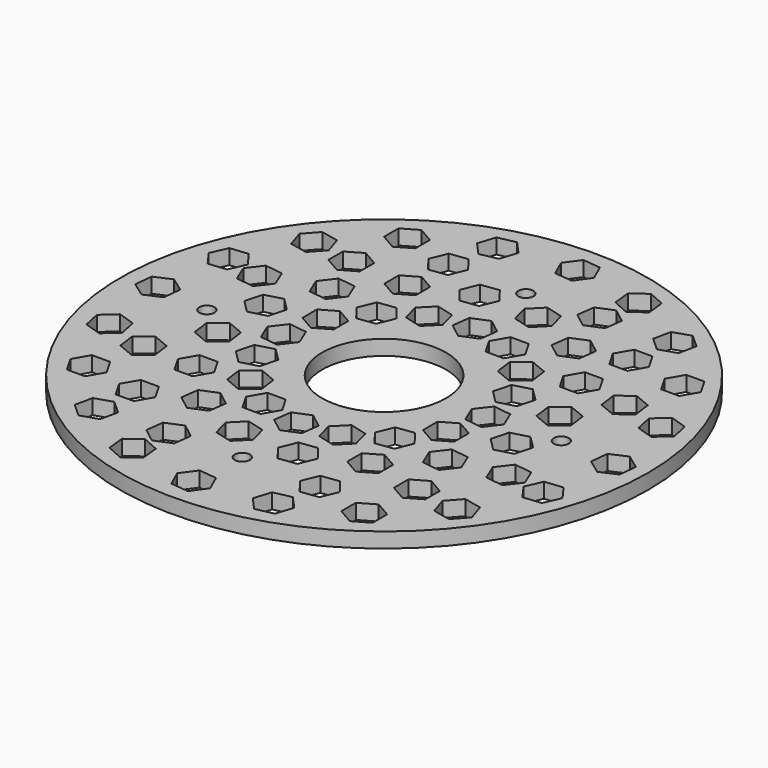
from build123d import *

# Parameters (mm, degrees)
F0_R     = 111.125
F1_DEPTH = 6.35
F3_D     = 6.35
F4_R     = 26.094164
F5_DEPTH = 25.4


with BuildPart() as f1:
    # F0 (on Top) → F1 (new body)
    with BuildSketch(Plane.XY):
        Circle(F0_R)
    extrude(amount=F1_DEPTH)

    # F3 (through all)
    with Locations(Plane.XY.offset(6.35)):
        with Locations((0, 74.6125), (74.6125, 0), (0, -74.6125), (-74.6125, 0)):
            Hole(F3_D / 2)

    # F4 (on face) → F5 (cut)
    with BuildSketch(Plane.XY.offset(6.35)):
        Polygon((-48.478067, 77.079657), (-48.478067, 84.699657), (-55.07718, 88.509657), (-61.676294, 84.699657), (-61.676294, 77.079657), (-55.07718, 73.269657), align=None)
        Polygon((-82.384663, 54.114619), (-74.931178, 52.530332), (-69.832403, 58.193095), (-72.187112, 65.440146), (-79.640597, 67.024433), (-84.739372, 61.361669), align=None)
        Polygon((-94.982904, 25.874331), (-87.404648, 26.670838), (-84.305314, 33.632055), (-88.784238, 39.796764), (-96.362495, 39.000257), (-99.461828, 32.039041), align=None)
        Polygon((-98.237816, -4.876849), (-91.276599, -1.777515), (-90.480092, 5.800741), (-96.644802, 10.279665), (-103.606018, 7.180332), (-104.402525, -0.397925), align=None)
        Polygon((-91.830783, -35.128782), (-86.16802, -30.030006), (-87.752307, -22.576522), (-94.999357, -20.221812), (-100.662121, -25.320588), (-99.077834, -32.774072), align=None)
        Polygon((-76.388972, -61.920198), (-72.578972, -55.321084), (-76.388972, -48.721971), (-84.008972, -48.721971), (-87.818972, -55.321084), (-84.008972, -61.920198), align=None)
        Polygon((-53.423933, -82.628567), (-51.839646, -75.175082), (-57.50241, -70.076307), (-64.74946, -72.431016), (-66.333747, -79.884501), (-60.670984, -84.983276), align=None)
        Polygon((-25.183646, -95.226808), (-25.980153, -87.648552), (-32.941369, -84.549218), (-39.106079, -89.028142), (-38.309572, -96.606399), (-31.348355, -99.705732), align=None)
        Polygon((5.567534, -98.48172), (2.468201, -91.520503), (-5.110056, -90.723996), (-9.588979, -96.888706), (-6.489646, -103.849922), (1.088611, -104.646429), align=None)
        Polygon((35.819467, -92.074687), (30.720692, -86.411924), (23.267207, -87.996211), (20.912498, -95.243261), (26.011273, -100.906025), (33.464758, -99.321738), align=None)
        Polygon((62.610883, -76.632876), (56.01177, -72.822876), (49.412656, -76.632876), (49.412656, -84.252876), (56.01177, -88.062876), (62.610883, -84.252876), align=None)
        Polygon((83.319252, -53.667837), (75.865767, -52.08355), (70.766992, -57.746314), (73.121702, -64.993364), (80.575186, -66.577651), (85.673962, -60.914888), align=None)
        Polygon((95.917494, -25.42755), (88.339237, -26.224057), (85.239904, -33.185273), (89.718828, -39.349983), (97.297084, -38.553476), (100.396418, -31.592259), align=None)
        Polygon((99.172405, 5.32363), (92.211189, 2.224297), (91.414682, -5.35396), (97.579392, -9.832883), (104.540608, -6.73355), (105.337115, 0.844707), align=None)
        Polygon((92.765373, 35.575563), (87.102609, 30.476788), (88.686896, 23.023303), (95.933947, 20.668594), (101.59671, 25.767369), (100.012423, 33.220854), align=None)
        Polygon((77.323561, 62.366979), (73.513561, 55.767866), (77.323561, 49.168752), (84.943561, 49.168752), (88.753561, 55.767866), (84.943561, 62.366979), align=None)
        Polygon((-52.499589, 52.821597), (-52.499589, 60.441597), (-59.098703, 64.251597), (-65.697816, 60.441597), (-65.697816, 52.821597), (-59.098703, 49.011597), align=None)
        Polygon((-80.910818, 23.659326), (-73.356008, 22.664717), (-68.717246, 28.710069), (-71.633293, 35.750031), (-79.188103, 36.744641), (-83.826865, 30.699288), align=None)
        Polygon((-73.942258, -40.482918), (-67.896905, -35.844156), (-68.891515, -28.289346), (-75.931477, -25.373298), (-81.97683, -30.01206), (-80.98222, -37.56687), align=None)
        Polygon((-52.821597, -65.697816), (-49.011597, -59.098703), (-52.821597, -52.499589), (-60.441597, -52.499589), (-64.251597, -59.098703), (-60.441597, -65.697816), align=None)
        Polygon((-23.659326, -80.910818), (-22.664717, -73.356008), (-28.710069, -68.717246), (-35.750031, -71.633293), (-36.744641, -79.188103), (-30.699288, -83.826865), align=None)
        Polygon((40.482918, -73.942258), (35.844156, -67.896905), (28.289346, -68.891515), (25.373298, -75.931477), (30.01206, -81.97683), (37.56687, -80.98222), align=None)
        Polygon((65.697816, -52.821597), (59.098703, -49.011597), (52.499589, -52.821597), (52.499589, -60.441597), (59.098703, -64.251597), (65.697816, -60.441597), align=None)
        Polygon((80.910818, -23.659326), (73.356008, -22.664717), (68.717246, -28.710069), (71.633293, -35.750031), (79.188103, -36.744641), (83.826865, -30.699288), align=None)
        Polygon((73.942258, 40.482918), (67.896905, 35.844156), (68.891515, 28.289346), (75.931477, 25.373298), (81.97683, 30.01206), (80.98222, 37.56687), align=None)
        Polygon((52.821597, 65.697816), (49.011597, 59.098703), (52.821597, 52.499589), (60.441597, 52.499589), (64.251597, 59.098703), (60.441597, 65.697816), align=None)
        Polygon((23.659326, 80.910818), (22.664717, 73.356008), (28.710069, 68.717246), (35.750031, 71.633293), (36.744641, 79.188103), (30.699288, 83.826865), align=None)
        Polygon((-40.482918, 73.942258), (-35.844156, 67.896905), (-28.289346, 68.891515), (-25.373298, 75.931477), (-30.01206, 81.97683), (-37.56687, 80.98222), align=None)
        Polygon((-27.530433, 51.040786), (-27.530433, 58.660786), (-34.129546, 62.470786), (-40.72866, 58.660786), (-40.72866, 51.040786), (-34.129546, 47.230786), align=None)
        Polygon((-56.500781, 31.431048), (-48.945971, 30.436438), (-44.307209, 36.48179), (-47.223257, 43.521752), (-54.778066, 44.516362), (-59.416829, 38.47101), align=None)
        Polygon((-63.567999, 7.278282), (-56.207644, 9.250483), (-54.235443, 16.610838), (-59.623596, 21.998992), (-66.983951, 20.026791), (-68.956152, 12.666436), align=None)
        Polygon((-60.854393, -17.740471), (-54.809041, -13.101709), (-55.80365, -5.546899), (-62.843612, -2.630851), (-68.888965, -7.269613), (-67.894355, -14.824423), align=None)
        Polygon((-48.773087, -39.816333), (-44.963087, -33.217219), (-48.773087, -26.618105), (-56.393087, -26.618105), (-60.203087, -33.217219), (-56.393087, -39.816333), align=None)
        Polygon((-29.163348, -55.588454), (-28.168738, -48.033644), (-34.214091, -43.394882), (-41.254053, -46.310929), (-42.248662, -53.865739), (-36.20331, -58.504501), align=None)
        Polygon((-5.010582, -62.655671), (-6.982784, -55.295317), (-14.343138, -53.323116), (-19.731292, -58.711269), (-17.759091, -66.071624), (-10.398736, -68.043825), align=None)
        Polygon((20.00817, -59.942066), (15.369408, -53.896714), (7.814598, -54.891323), (4.898551, -61.931285), (9.537313, -67.976638), (17.092123, -66.982028), align=None)
        Polygon((42.084032, -47.860759), (35.484919, -44.050759), (28.885805, -47.860759), (28.885805, -55.480759), (35.484919, -59.290759), (42.084032, -55.480759), align=None)
        Polygon((57.856153, -28.251021), (50.301343, -27.256411), (45.662581, -33.301764), (48.578629, -40.341726), (56.133439, -41.336335), (60.772201, -35.290983), align=None)
        Polygon((64.923371, -4.098255), (57.563016, -6.070457), (55.590815, -13.430811), (60.978969, -18.818965), (68.339324, -16.846764), (70.311525, -9.486409), align=None)
        Polygon((62.209766, 20.920497), (56.164413, 16.281735), (57.159023, 8.726926), (64.198985, 5.810878), (70.244337, 10.44964), (69.249728, 18.00445), align=None)
        Polygon((50.128459, 42.996359), (46.318459, 36.397246), (50.128459, 29.798132), (57.748459, 29.798132), (61.558459, 36.397246), (57.748459, 42.996359), align=None)
        Polygon((30.51872, 58.76848), (29.524111, 51.213671), (35.569463, 46.574908), (42.609425, 49.490956), (43.604035, 57.045766), (37.558683, 61.684528), align=None)
        Polygon((6.365955, 65.835698), (8.338156, 58.475343), (15.698511, 56.503142), (21.086665, 61.891296), (19.114463, 69.251651), (11.754109, 71.223852), align=None)
        Polygon((-18.652798, 63.122093), (-14.014036, 57.07674), (-6.459226, 58.07135), (-3.543178, 65.111312), (-8.18194, 71.156664), (-15.73675, 70.162055), align=None)
        Polygon((-33.364485, 15.240976), (-33.364485, 22.860976), (-39.963598, 26.670976), (-46.562712, 22.860976), (-46.562712, 15.240976), (-39.963598, 11.430976), align=None)
        Polygon((-48.729747, -3.899774), (-41.174937, -4.894384), (-36.536175, 1.150969), (-39.452223, 8.190931), (-47.007032, 9.18554), (-51.645795, 3.140188), align=None)
        Polygon((-43.406978, -22.41281), (-36.046623, -20.440608), (-34.074422, -13.080254), (-39.462576, -7.6921), (-46.822931, -9.664301), (-48.795132, -17.024656), align=None)
        Polygon((-31.404749, -37.479689), (-25.359397, -32.840927), (-26.354006, -25.286117), (-33.393968, -22.370069), (-39.439321, -27.008831), (-38.444711, -34.563641), align=None)
        Polygon((-14.55029, -46.806616), (-10.74029, -40.207502), (-14.55029, -33.608389), (-22.17029, -33.608389), (-25.98029, -40.207502), (-22.17029, -46.806616), align=None)
        Polygon((4.59046, -48.973651), (5.585069, -41.418841), (-0.460283, -36.780079), (-7.500245, -39.696127), (-8.494855, -47.250936), (-2.449502, -51.889699), align=None)
        Polygon((23.103495, -43.650882), (21.131294, -36.290527), (13.770939, -34.318326), (8.382786, -39.70648), (10.354987, -47.066835), (17.715341, -49.039036), align=None)
        Polygon((38.170374, -31.648653), (33.531612, -25.603301), (25.976802, -26.59791), (23.060755, -33.637872), (27.699517, -39.683225), (35.254327, -38.688615), align=None)
        Polygon((47.497301, -14.794194), (40.898188, -10.984194), (34.299074, -14.794194), (34.299074, -22.414194), (40.898188, -26.224194), (47.497301, -22.414194), align=None)
        Polygon((49.664336, 4.346556), (42.109527, 5.341165), (37.470764, -0.704187), (40.386812, -7.744149), (47.941622, -8.738759), (52.580384, -2.693406), align=None)
        Polygon((44.341568, 22.859591), (36.981213, 20.88739), (35.009012, 13.527035), (40.397165, 8.138882), (47.75752, 10.111083), (49.729721, 17.471437), align=None)
        Polygon((32.339339, 37.92647), (26.293986, 33.287708), (27.288596, 25.732898), (34.328558, 22.816851), (40.37391, 27.455613), (39.379301, 35.010423), align=None)
        Polygon((15.48488, 47.253397), (11.67488, 40.654284), (15.48488, 34.05517), (23.10488, 34.05517), (26.91488, 40.654284), (23.10488, 47.253397), align=None)
        Polygon((-3.65587, 49.420432), (-4.65048, 41.865623), (1.394873, 37.22686), (8.434835, 40.142908), (9.429444, 47.697718), (3.384092, 52.33648), align=None)
        Polygon((-22.168906, 44.097664), (-20.196704, 36.737309), (-12.83635, 34.765108), (-7.448196, 40.153261), (-9.420397, 47.513616), (-16.780752, 49.485817), align=None)
        Polygon((-37.235785, 32.095435), (-32.597023, 26.050082), (-25.042213, 27.044692), (-22.126165, 34.084654), (-26.764927, 40.130006), (-34.319737, 39.135397), align=None)
        Circle(F4_R)
        Polygon((54.358523, 83.075348), (52.774236, 75.621863), (58.436999, 70.523088), (65.68405, 72.877798), (67.268337, 80.331282), (61.605573, 85.430058), align=None)
        Polygon((26.118235, 95.67359), (26.914742, 88.095333), (33.875959, 84.996), (40.040668, 89.474924), (39.244161, 97.05318), (32.282945, 100.152514), align=None)
        Polygon((-4.632945, 98.928501), (-1.533611, 91.967285), (6.044645, 91.170778), (10.523569, 97.335488), (7.424236, 104.296704), (-0.154021, 105.093211), align=None)
        Polygon((-34.884878, 92.521469), (-29.786102, 86.858705), (-22.332618, 88.442992), (-19.977908, 95.690043), (-25.076683, 101.352806), (-32.530168, 99.768519), align=None)
    extrude(amount=-F5_DEPTH, mode=Mode.SUBTRACT)


solid = f1.part
